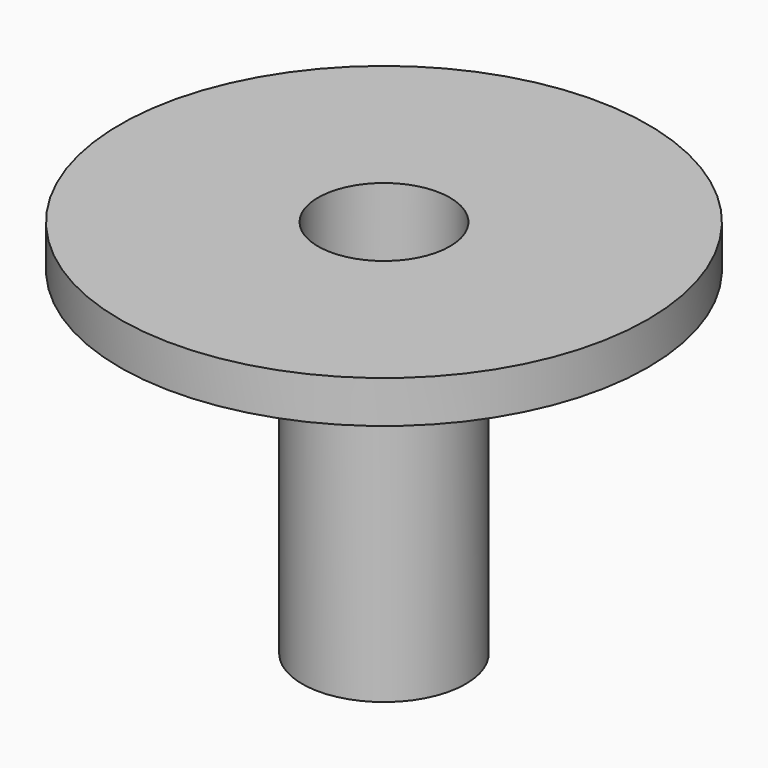
from build123d import *

# Parameters (mm, degrees)
SKETCH_R      = 3.875
SKETCH_R_2    = 3.125
PAD_DEPTH     = 16
SKETCH001_R   = 12.5
SKETCH001_R_2 = 3.125
PAD001_DEPTH  = 2


with BuildPart() as part:
    # Sketch → Pad (new body)
    with BuildSketch(Plane.XY):
        Circle(SKETCH_R)
        Circle(SKETCH_R_2, mode=Mode.SUBTRACT)
    extrude(amount=PAD_DEPTH)

    # Sketch001 (on Face4 of Pad) → Pad001 (join)
    with BuildSketch(Plane.XY.offset(16)):
        Circle(SKETCH001_R)
        Circle(SKETCH001_R_2, mode=Mode.SUBTRACT)
    extrude(amount=PAD001_DEPTH)


solid = part.part
